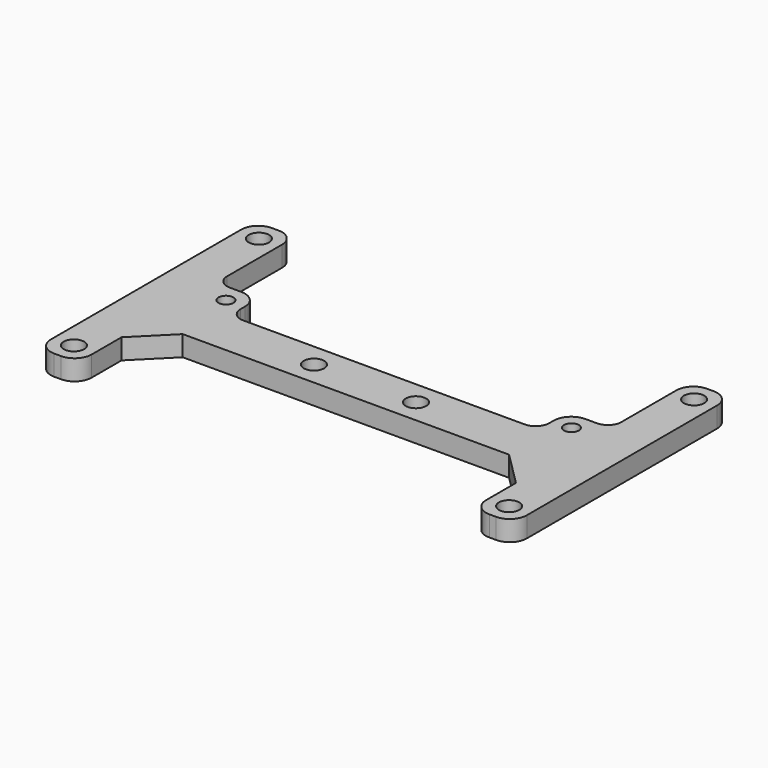
from build123d import *

# Parameters (mm, degrees)
SKETCH_R     = 1.5
SKETCH_R_2   = 1.1
PAD_DEPTH    = 3
FILLET_R     = 2.6
SKETCH001_W  = 6
SKETCH001_H  = 40
SKETCH001_R  = 1.5
PAD001_DEPTH = 3
FILLET001_R  = 2.5
CHAMFER_SIZE = 5
FILLET002_R  = 2


with BuildPart() as part:
    # Sketch → Pad (new body)
    with BuildSketch(Plane.XY):
        Polygon((-22.7, 0), (-22.7, 5.4), (-35, 5.4), (-35, -7), (35, -7), (35, 5.4), (22.7, 5.4), (22.7, 0), align=None)
        with Locations((-7.5, -3.5)):
            Circle(SKETCH_R, mode=Mode.SUBTRACT)
        with Locations((7.5, -3.5)):
            Circle(SKETCH_R, mode=Mode.SUBTRACT)
        with Locations((-25.4, 2.7)):
            Circle(SKETCH_R_2, mode=Mode.SUBTRACT)
        with Locations((25.4, 2.7)):
            Circle(SKETCH_R_2, mode=Mode.SUBTRACT)
    extrude(amount=PAD_DEPTH)

    # Fillet
    fillet_edges = [part.edges().sort_by_distance(p)[0] for p in [
        (-22.7, 5.4, 1.5),
        (22.7, 5.4, 1.5),
    ]]
    fillet(fillet_edges, radius=FILLET_R)

    # Sketch001 → Pad001 (new body)
    with BuildSketch(Plane.XY.offset(3)):
        with Locations((-32, 0)):
            Rectangle(SKETCH001_W, SKETCH001_H)
        with Locations((-32, 17)):
            Circle(SKETCH001_R, mode=Mode.SUBTRACT)
        with Locations((-32, -17)):
            Circle(SKETCH001_R, mode=Mode.SUBTRACT)
        with Locations((32, 0)):
            Rectangle(SKETCH001_W, SKETCH001_H)
        with Locations((32, 17)):
            Circle(SKETCH001_R, mode=Mode.SUBTRACT)
        with Locations((32, -17)):
            Circle(SKETCH001_R, mode=Mode.SUBTRACT)
    extrude(amount=-PAD001_DEPTH)

    # Fillet001
    fillet001_edges = [part.edges().sort_by_distance(p)[0] for p in [
        (-35, -20, 1.5),
        (-29, -20, 1.5),
        (29, -20, 1.5),
        (35, -20, 1.5),
        (35, 20, 1.5),
        (29, 20, 1.5),
        (-29, 20, 1.5),
        (-35, 20, 1.5),
    ]]
    fillet(fillet001_edges, radius=FILLET001_R)

    # Chamfer
    chamfer_edges = [part.edges().sort_by_distance(p)[0] for p in [
        (-29, -7, 1.5),
        (29, -7, 1.5),
    ]]
    chamfer(chamfer_edges, length=CHAMFER_SIZE)

    # Fillet002
    fillet002_edges = [part.edges().sort_by_distance(p)[0] for p in [
        (-29, 5.4, 1.5),
        (-22.7, 0, 1.5),
        (22.7, 0, 1.5),
        (29, 5.4, 1.5),
    ]]
    fillet(fillet002_edges, radius=FILLET002_R)


solid = part.part
